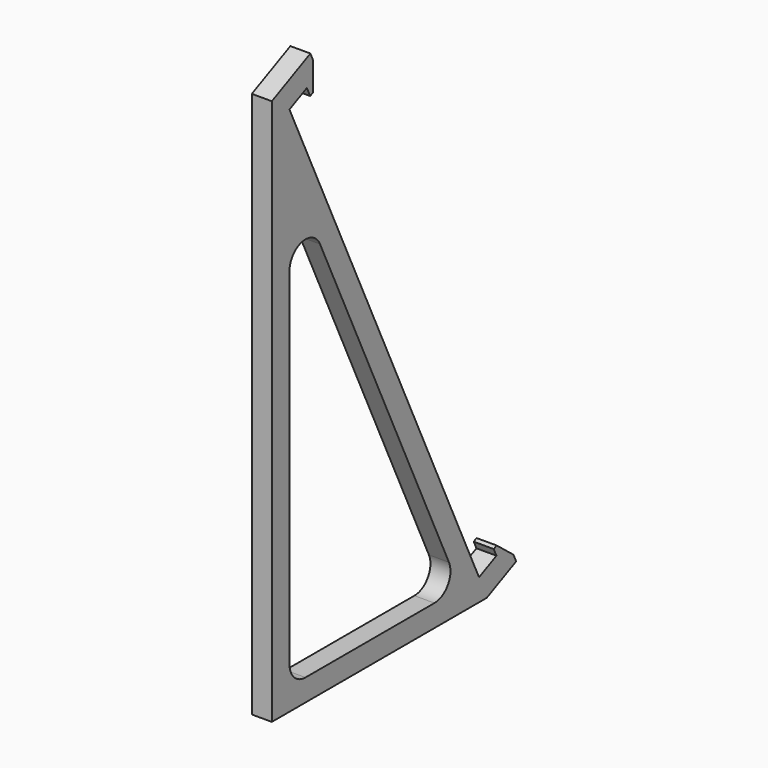
from build123d import *

# Parameters (mm, degrees)
F1_DEPTH = 5
F2_R     = 5


with BuildPart() as f1:
    # F0 (on Right) → F1 (new body)
    with BuildSketch(Plane.YZ):
        Polygon((59.166557, 0), (0, 126.88309), (5.437847, 129.4188), (6.466297, 127.213281), (7.372605, 127.635899), (7.372605, 134.734504), (6.527368, 136.54712), (-5.5, 130.938666), (-5.5, -5.5), (61.568978, -5.5), (70.765344, -1.211664), (69.920108, 0.600951), (64.665475, 4.770943), (63.759167, 4.348325), (64.604403, 2.53571), align=None)
        Polygon((0, 0), (0, 113.868981), (53.097978, 0), align=None, mode=Mode.SUBTRACT)
    extrude(amount=F1_DEPTH)

    # F2
    f2_edges = [f1.edges().sort_by_distance(p)[0] for p in [
        (2.5, 0, 113.868981),
        (2.5, 53.097978, 0),
        (2.5, 0, 0),
    ]]
    fillet(f2_edges, radius=F2_R)


solid = f1.part
